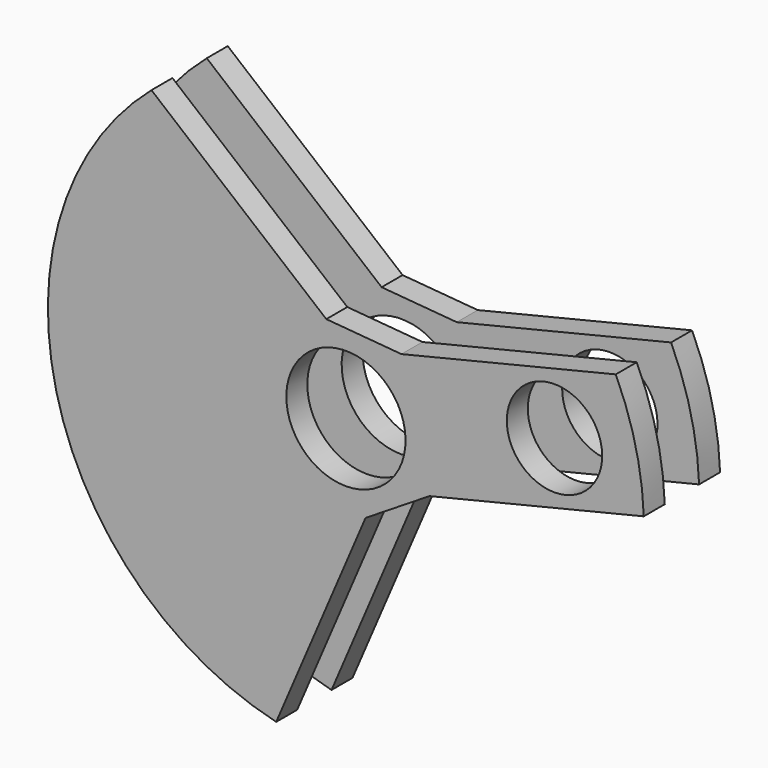
from build123d import *

# Parameters (mm, degrees)
SKETCH001_R             = 62.5
PAD001_DEPTH            = 20
SKETCH002_R             = 12.5
POCKET_DEPTH            = 0.001
POCKET_DEPTH_BACK       = 20.001
POCKET001_DEPTH         = 20.001
SKETCH008_W             = 9
SKETCH008_H             = 142.460937
POCKET004_DEPTH         = 55.624736
POCKET004_DEPTH_BACK    = 55.624736
SKETCH009_R             = 10
POCKET005_DEPTH         = 0.001
POCKET005_DEPTH_BACK    = 20.001
POCKET013_DEPTH         = 5
BODY001_PLACEMENT_ANGLE = 283.6


with BuildPart() as part:
    # Sketch001 → Pad001 (new body)
    with BuildSketch(Plane.XZ):
        Circle(SKETCH001_R)
    extrude(amount=PAD001_DEPTH)

    # Sketch002 → Pocket (cut, two sides)
    with BuildSketch(Plane.XZ) as pocket_sk:
        Circle(SKETCH002_R)
    extrude(amount=-POCKET_DEPTH, mode=Mode.SUBTRACT)
    extrude(pocket_sk.sketch, amount=POCKET_DEPTH_BACK, mode=Mode.SUBTRACT)

    # Sketch003 → Pocket001 (cut, through all)
    with BuildSketch(Plane.XZ):
        Polygon((-17.5, 0), (-55.623736, -28.5), (-118.404419, 45.785934), (-16.63648, 95.254333), (53.284958, 95.254333), (87.109581, 0), (60.526608, -36.201149), (55.623736, -28.5), (17.5, 0), (12.5, 15), (12.5, 61.237244), (12.468278, 71.344986), (-10.215172, 69.987854), (-12.5, 61.237244), (-12.5, 15), align=None)
    extrude(amount=POCKET001_DEPTH, mode=Mode.SUBTRACT)

    # Sketch008 → Pocket004 (cut, two sides)
    with BuildSketch(Plane.YZ) as pocket004_sk:
        with Locations((-10, 1.701084)):
            Rectangle(SKETCH008_W, SKETCH008_H)
    extrude(amount=-POCKET004_DEPTH, mode=Mode.SUBTRACT)
    extrude(pocket004_sk.sketch, amount=POCKET004_DEPTH_BACK, mode=Mode.SUBTRACT)

    # Sketch009 → Pocket005 (cut, two sides)
    with BuildSketch(Plane.XZ) as pocket005_sk:
        with Locations((0, 45)):
            Circle(SKETCH009_R)
    extrude(amount=-POCKET005_DEPTH, mode=Mode.SUBTRACT)
    extrude(pocket005_sk.sketch, amount=POCKET005_DEPTH_BACK, mode=Mode.SUBTRACT)

    # Sketch008 → Pocket013 (cut)
    with BuildSketch(Plane.YZ):
        with Locations((-10, 1.701084)):
            Rectangle(SKETCH008_W, SKETCH008_H)
    extrude(amount=-POCKET013_DEPTH, mode=Mode.SUBTRACT)


with BuildPart() as part_1:
    # Body001 placement: moved
    add(part.part.moved(Location((0, 2.5, 0))).rotate(Axis((0, 2.5, 0), (0, -1, 0)), BODY001_PLACEMENT_ANGLE))


solid = part_1.part
